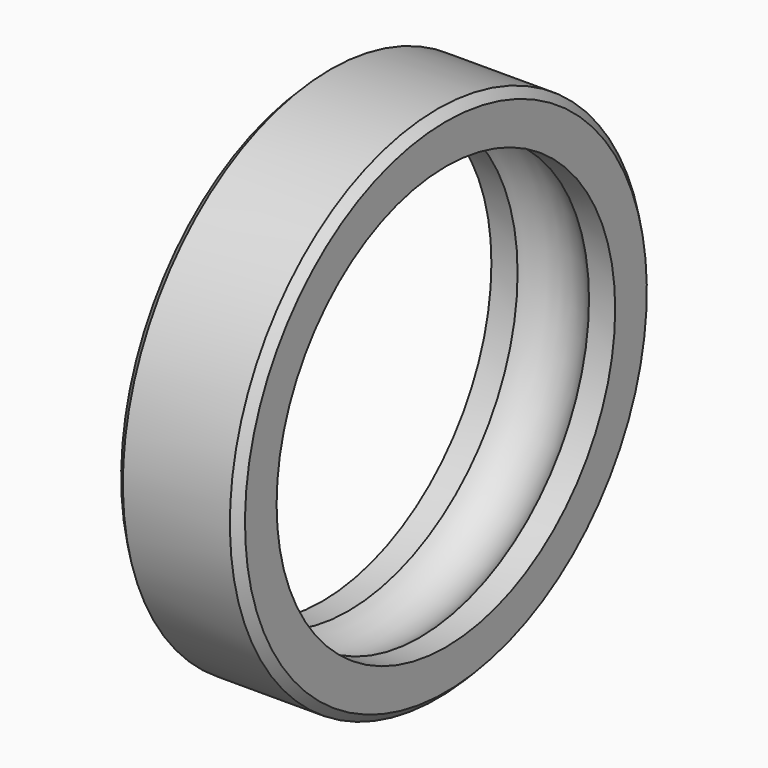
from build123d import *

# Parameters (mm, degrees)
F2_SIZE = 53.34


with BuildPart() as f1:
    # F0 (on Front) → F1 (revolve)
    with BuildSketch(Plane.XZ):
        with BuildLine():
            Line((-393.7, 1651), (-393.7, 1346.2))
            Line((-393.7, 1346.2), (-227.184507, 1346.2))
            ThreePointArc((-227.184507, 1346.2), (0, 1447.8), (227.184507, 1346.2))
            Line((227.184507, 1346.2), (393.7, 1346.2))
            Line((393.7, 1346.2), (393.7, 1651))
            Line((393.7, 1651), (-393.7, 1651))
        make_face()
    revolve(axis=Axis((1351.211951, 0, 0), (1, 0, 0)))

    # F2
    f2_edges = [f1.edges().sort_by_distance(p)[0] for p in [
        (393.7, 0, -1651),
        (-393.7, 0, -1651),
        (0, 0, 1651),
    ]]
    chamfer(f2_edges, length=F2_SIZE)


solid = f1.part
